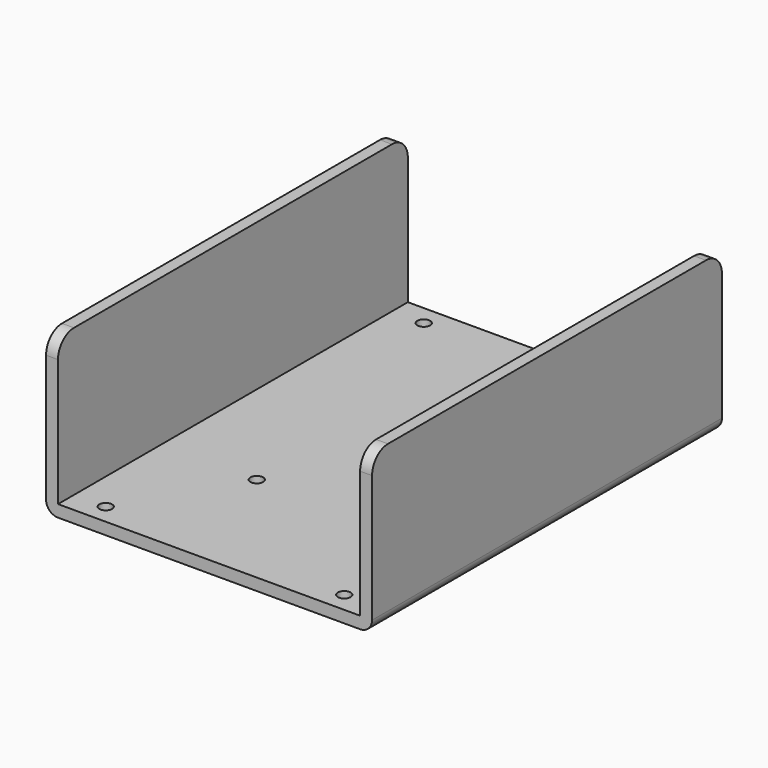
from build123d import *

# Parameters (mm, degrees)
PAD_DEPTH    = 55
SKETCH001_R  = 1.6
POCKET_DEPTH = 3.001
FILLET_R     = 3
FILLET001_R  = 5


with BuildPart() as part:
    # Sketch → Pad (new body, symmetric)
    with BuildSketch(Plane.XZ):
        Polygon((-41, -3), (-41, 37), (-38, 37), (-38, 0), (38, 0), (38, 37), (41, 37), (41, -3), align=None)
    extrude(amount=PAD_DEPTH, both=True)

    # Sketch001 (on Face4 of Pad) → Pocket (cut, through all)
    with BuildSketch(Plane(origin=(0, 0, 0), x_dir=(-1, 0, 0), z_dir=(0, 0, 1))):
        with Locations((-30, 50)):
            Circle(SKETCH001_R)
        with Locations((30, 50)):
            Circle(SKETCH001_R)
        with Locations((-30, -50)):
            Circle(SKETCH001_R)
        with Locations((30, -50)):
            Circle(SKETCH001_R)
        with Locations((-14, 22.5)):
            Circle(SKETCH001_R)
        with Locations((14, 22.5)):
            Circle(SKETCH001_R)
    extrude(amount=-POCKET_DEPTH, mode=Mode.SUBTRACT)

    # Fillet
    fillet_edges = [part.edges().sort_by_distance(p)[0] for p in [
        (-41, 0, -3),
        (41, 0, -3),
    ]]
    fillet(fillet_edges, radius=FILLET_R)

    # Fillet001
    fillet001_edges = [part.edges().sort_by_distance(p)[0] for p in [
        (39.5, -55, 37),
        (-39.5, -55, 37),
        (-39.5, 55, 37),
        (39.5, 55, 37),
    ]]
    fillet(fillet001_edges, radius=FILLET001_R)


solid = part.part
